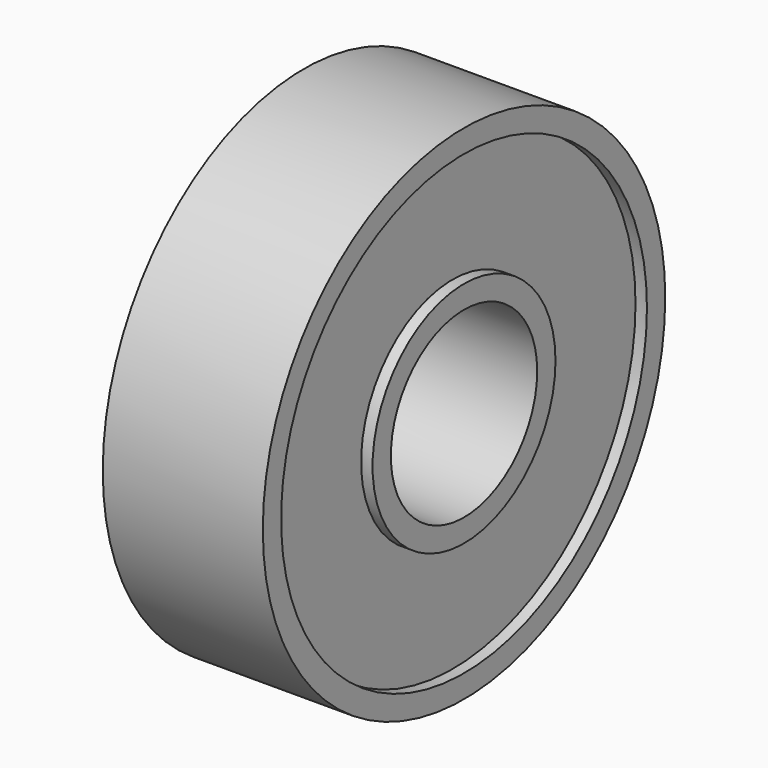
from build123d import *


with BuildPart() as part:
    # Sketch → Revolution (revolve)
    with BuildSketch(Plane.XY):
        Polygon((3.5, 4), (-3.5, 4), (-3.5, 5), (-3, 5), (-3, 10), (-3.5, 10), (-3.5, 11), (3.5, 11), (3.5, 10), (3, 10), (3, 5), (3.5, 5), align=None)
    revolve(axis=Axis((0, 0, 0), (1, 0, 0)))


solid = part.part
